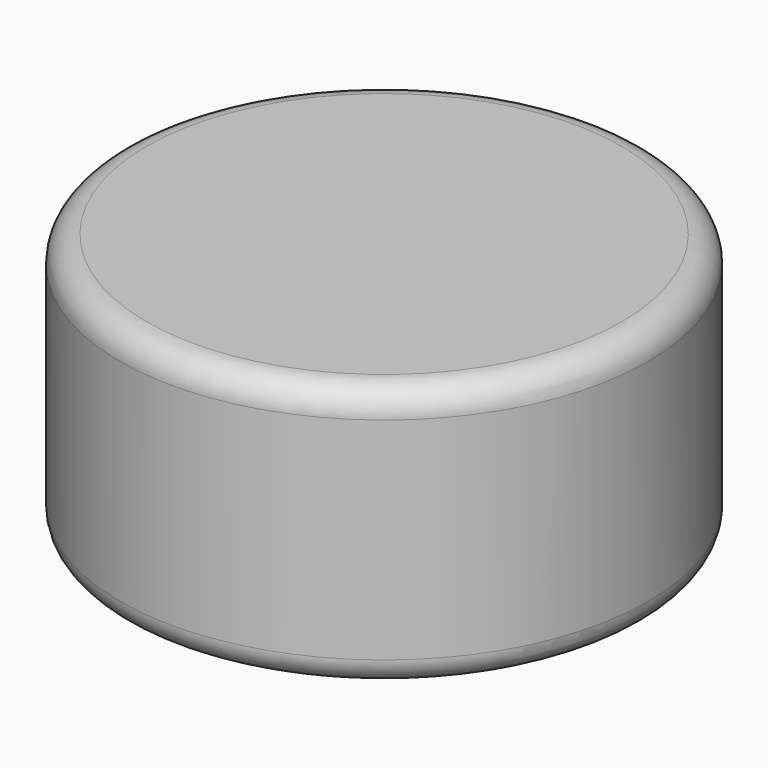
from build123d import *

# Parameters (mm, degrees)
F0_R     = 25
F1_DEPTH = 25
F2_T     = -5
F3_R     = 2.5
F4_R     = 2.5


with BuildPart() as f1:
    # F0 (on Top) → F1 (new body)
    with BuildSketch(Plane.XY):
        Circle(F0_R)
    extrude(amount=F1_DEPTH)

    # F2
    f2_openings = [f1.faces().sort_by_distance(p)[0] for p in [
        (0, 0, 0),
    ]]
    offset(amount=F2_T, openings=f2_openings)

    # F3
    f3_edges = [f1.edges().sort_by_distance(p)[0] for p in [
        (-25, 0, 25),
    ]]
    fillet(f3_edges, radius=F3_R)

    # F4
    f4_edges = [f1.edges().sort_by_distance(p)[0] for p in [
        (-25, 0, 0),
    ]]
    fillet(f4_edges, radius=F4_R)


solid = f1.part
